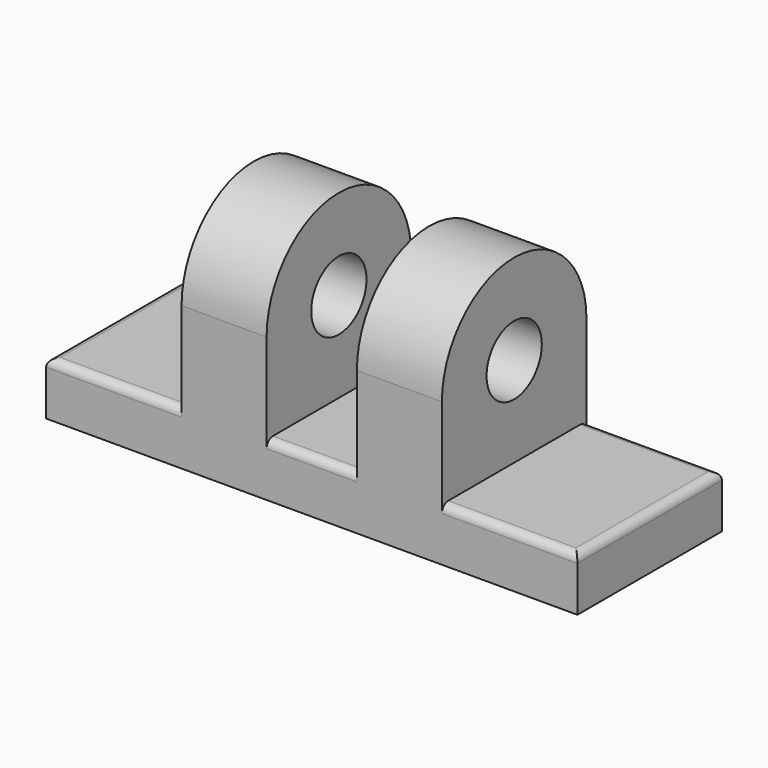
from build123d import *

# Parameters (mm, degrees)
F0_W      = 50
F0_H      = 17
F1_DEPTH  = 5
F5_DEPTH  = 8
F8_DEPTH  = 8
F9_R      = 3.25
F10_DEPTH = 25
F11_R     = 0.75


with BuildPart() as f1:
    # F0 (on Top) → F1 (new body)
    with BuildSketch(Plane.XY):
        Rectangle(F0_W, F0_H)
    extrude(amount=F1_DEPTH)

    # F4 (on line) → F5 (join)
    with BuildSketch(Plane.YZ.offset(-12.25)):
        with BuildLine():
            ThreePointArc((0, 5), (6.0104076401, 7.4895923599), (8.5, 13.5))
            ThreePointArc((8.5, 13.5), (0, 22), (-8.5, 13.5))
            ThreePointArc((-8.5, 13.5), (-6.0104076401, 7.4895923599), (0, 5))
        make_face()
        with BuildLine():
            Line((8.5, 5), (8.5, 13.5))
            ThreePointArc((8.5, 13.5), (6.0104076401, 7.4895923599), (0, 5))
            Line((0, 5), (8.5, 5))
        make_face()
        with BuildLine():
            ThreePointArc((0, 5), (-6.0104076401, 7.4895923599), (-8.5, 13.5))
            Line((-8.5, 13.5), (-8.5, 5))
            Line((-8.5, 5), (0, 5))
        make_face()
    extrude(amount=F5_DEPTH)

    # F7 (on line) → F8 (join)
    with BuildSketch(Plane.YZ.offset(4.25)):
        with BuildLine():
            ThreePointArc((0, 5), (6.0104076401, 7.4895923599), (8.5, 13.5))
            ThreePointArc((8.5, 13.5), (0, 22), (-8.5, 13.5))
            ThreePointArc((-8.5, 13.5), (-6.0104076401, 7.4895923599), (0, 5))
        make_face()
        with BuildLine():
            Line((8.5, 5), (8.5, 13.5))
            ThreePointArc((8.5, 13.5), (6.0104076401, 7.4895923599), (0, 5))
            Line((0, 5), (8.5, 5))
        make_face()
        with BuildLine():
            ThreePointArc((0, 5), (-6.0104076401, 7.4895923599), (-8.5, 13.5))
            Line((-8.5, 13.5), (-8.5, 5))
            Line((-8.5, 5), (0, 5))
        make_face()
    extrude(amount=F8_DEPTH)

    # F9 (on face) → F10 (cut)
    with BuildSketch(Plane.YZ.offset(12.25)):
        with Locations((0, 13.5)):
            Circle(F9_R)
    extrude(amount=-F10_DEPTH, mode=Mode.SUBTRACT)

    # F11
    f11_edges = [f1.edges().sort_by_distance(p)[0] for p in [
        (18.625, 8.5, 5),
        (0, 8.5, 5),
        (-18.625, 8.5, 5),
        (-18.625, -8.5, 5),
        (-25, 0, 5),
        (0, -8.5, 5),
        (18.625, -8.5, 5),
        (25, 0, 5),
    ]]
    fillet(f11_edges, radius=F11_R)


solid = f1.part
